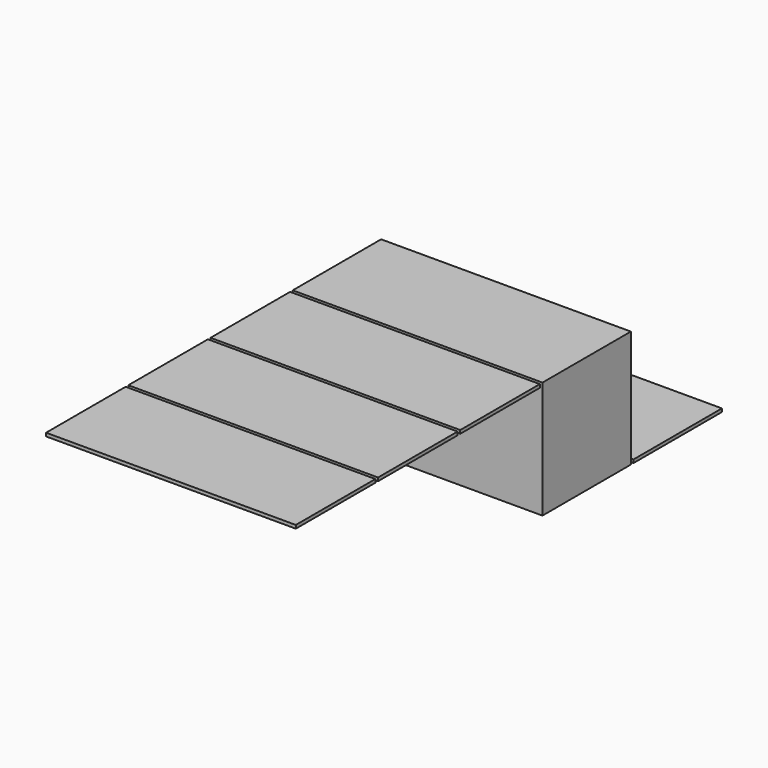
from build123d import *

# Parameters (mm, degrees)
F0_W      = 1100
F0_H      = 500
F1_DEPTH  = 15
F2_W      = 15
F2_H      = 500
F3_DEPTH  = 500
F4_W      = 1130
F4_H      = 500
F5_DEPTH  = 15
F6_W      = 1130
F6_H      = 500
F7_DEPTH  = 15
F8_W      = 1130
F8_H      = 14.60177
F9_DEPTH  = 500
F11_W     = 1130
F11_H     = 450
F12_DEPTH = 15
F13_W     = 1130
F13_H     = 450
F14_DEPTH = 15
F15_W     = 1130
F15_H     = 450
F16_DEPTH = 15


with BuildPart() as f1:
    # F0 (on Front) → F1 (new body)
    with BuildSketch(Plane.XZ):
        with Locations((-10.027714, -29.336537)):
            Rectangle(F0_W, F0_H)
    extrude(amount=F1_DEPTH)

    # F2 (on face) → F3 (join)
    with BuildSketch(Plane.XZ.offset(15)):
        with Locations((547.472286, -29.336537)):
            Rectangle(F2_W, F2_H)
        with Locations((-567.527714, -29.336537)):
            Rectangle(F2_W, F2_H)
    extrude(amount=-F3_DEPTH)

    # F4 (on face) → F5 (join)
    with BuildSketch(Plane(origin=(0, 0, -279.336537), x_dir=(1, 0, 0), z_dir=(0, 0, -1))):
        with Locations((-10.027714, -235)):
            Rectangle(F4_W, F4_H)
    extrude(amount=F5_DEPTH)

    # F6 (on face) → F7 (join)
    with BuildSketch(Plane.XY.offset(220.663463)):
        with Locations((-10.027714, 235)):
            Rectangle(F6_W, F6_H)
    extrude(amount=F7_DEPTH)


with BuildPart() as f9:
    # F8 (on face) → F9 (new body)
    with BuildSketch(Plane(origin=(0, 485, 0), x_dir=(-1, 0, 0), z_dir=(0, 1, 0))):
        with Locations((10.027714, -287.035652)):
            Rectangle(F8_W, F8_H)
    extrude(amount=F9_DEPTH)


with BuildPart() as f9_1:
    # F10: moved
    add(f9.part.moved(Location((0, 15, 0))))


with BuildPart() as f12:
    # F11 (on face) → F12 (new body)
    with BuildSketch(Plane.XY.offset(235.663463)):
        with Locations((-10.027714, -255)):
            Rectangle(F11_W, F11_H)
    extrude(amount=-F12_DEPTH)


with BuildPart() as f14:
    # F13 (on face) → F14 (new body)
    with BuildSketch(Plane.XY.offset(235.663463)):
        with Locations((-10.027714, -720)):
            Rectangle(F13_W, F13_H)
    extrude(amount=-F14_DEPTH)


with BuildPart() as f16:
    # F15 (on face) → F16 (new body)
    with BuildSketch(Plane.XY.offset(235.663463)):
        with Locations((-10.027714, -1185)):
            Rectangle(F15_W, F15_H)
    extrude(amount=-F16_DEPTH)


solid = Compound([f1.part, f9_1.part, f12.part, f14.part, f16.part])
